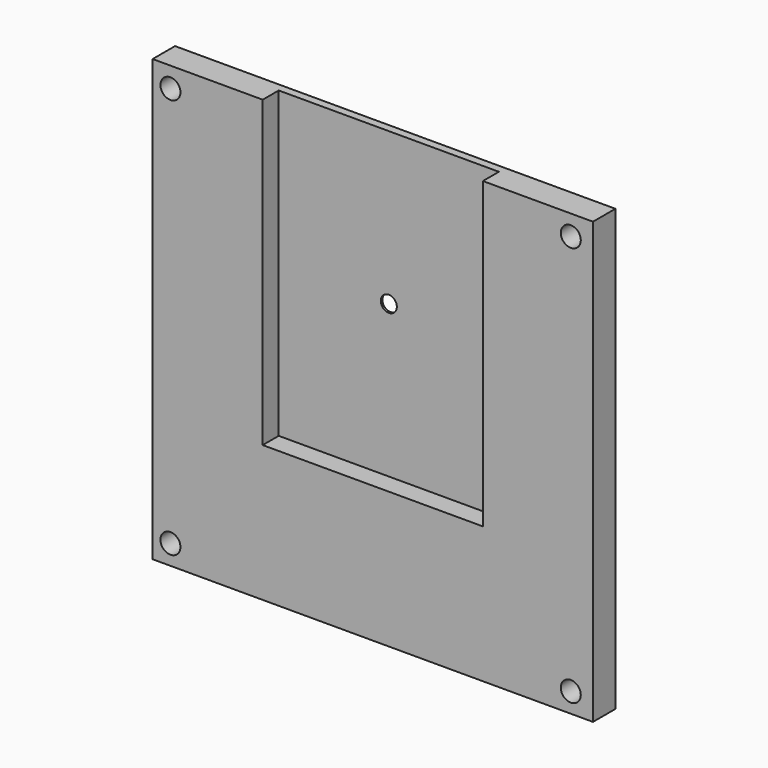
from build123d import *

# Parameters (mm, degrees)
F0_W     = 27.5
F0_H     = 55
F0_R     = 2.5
F0_H_2   = 20.950978
F1_DEPTH = 7
F2_W     = 55
F2_H     = 75.950978
F3_DEPTH = 5
F4_DEPTH = 1.5


with BuildPart() as f1:
    # F0 (on Front) → F1 (new body)
    with BuildSketch(Plane.XZ):
        with Locations((-47.613798, 47.863281)):
            Rectangle(F0_W, F0_H)
        with Locations((-56.909575, 70.300661)):
            Circle(F0_R, mode=Mode.SUBTRACT)
        Polygon((-33.863798, 20.363281), (-61.363798, 20.363281), (-61.363798, -34.636719), (48.636202, -34.636719), (48.636202, 20.363281), (21.136202, 20.363281), (21.136202, -0.587697), (-6.363798, -0.587697), (-33.863798, -0.587697), align=None)
        with Locations((-56.909575, -29.699339)):
            Circle(F0_R, mode=Mode.SUBTRACT)
        with Locations((43.090425, -29.699339)):
            Circle(F0_R, mode=Mode.SUBTRACT)
        with Locations((34.886202, 47.863281)):
            Rectangle(F0_W, F0_H)
        with Locations((43.090425, 70.300661)):
            Circle(F0_R, mode=Mode.SUBTRACT)
        Polygon((-6.363798, 75.363281), (-33.863798, 75.363281), (-33.863798, 20.363281), (-6.363798, 20.363281), (-6.363798, 32.674998), (-10.402054, 34.54878), (-10.841582, 39.465519), (-6.803326, 42.30453), (-6.363798, 42.100586), align=None)
        Polygon((21.136202, 75.363281), (-6.363798, 75.363281), (-6.363798, 42.100586), (-2.325542, 40.226804), (-1.886014, 35.310065), (-5.92427, 32.471054), (-6.363798, 32.674998), (-6.363798, 20.363281), (21.136202, 20.363281), align=None)
        with Locations((-20.113798, 9.887792)):
            Rectangle(F0_W, F0_H_2)
        with Locations((7.386202, 9.887792)):
            Rectangle(F0_W, F0_H_2)
        with BuildLine():
            Line((-2.325542, 40.226804), (-6.363798, 42.100586))
            Line((-6.363798, 42.100586), (-6.363798, 39.387792))
            ThreePointArc((-6.363798, 39.387792), (-4.949584, 38.802006), (-4.363798, 37.387792))
            ThreePointArc((-4.363798, 37.387792), (-4.949584, 35.973578), (-6.363798, 35.387792))
            Line((-6.363798, 35.387792), (-6.363798, 32.674998))
            Line((-6.363798, 32.674998), (-5.92427, 32.471054))
            Line((-5.92427, 32.471054), (-1.886014, 35.310065))
            Line((-1.886014, 35.310065), (-2.325542, 40.226804))
        make_face()
        with BuildLine():
            Line((-6.363798, 39.387792), (-6.363798, 42.100586))
            Line((-6.363798, 42.100586), (-6.803326, 42.30453))
            Line((-6.803326, 42.30453), (-10.841582, 39.465519))
            Line((-10.841582, 39.465519), (-10.402054, 34.54878))
            Line((-10.402054, 34.54878), (-6.363798, 32.674998))
            Line((-6.363798, 32.674998), (-6.363798, 35.387792))
            ThreePointArc((-6.363798, 35.387792), (-8.363798, 37.387792), (-6.363798, 39.387792))
        make_face()
    extrude(amount=F1_DEPTH)

    # F2 (on face) → F3 (cut)
    with BuildSketch(Plane.XZ.offset(7)):
        with Locations((-6.363798, 37.387792)):
            Rectangle(F2_W, F2_H)
    extrude(amount=-F3_DEPTH, mode=Mode.SUBTRACT)

    # F0 (on Front) → F4 (cut)
    with BuildSketch(Plane.XZ):
        with BuildLine():
            Line((-2.325542, 40.226804), (-6.363798, 42.100586))
            Line((-6.363798, 42.100586), (-6.363798, 39.387792))
            ThreePointArc((-6.363798, 39.387792), (-4.949584, 38.802006), (-4.363798, 37.387792))
            ThreePointArc((-4.363798, 37.387792), (-4.949584, 35.973578), (-6.363798, 35.387792))
            Line((-6.363798, 35.387792), (-6.363798, 32.674998))
            Line((-6.363798, 32.674998), (-5.92427, 32.471054))
            Line((-5.92427, 32.471054), (-1.886014, 35.310065))
            Line((-1.886014, 35.310065), (-2.325542, 40.226804))
        make_face()
        with BuildLine():
            Line((-6.363798, 39.387792), (-6.363798, 42.100586))
            Line((-6.363798, 42.100586), (-6.803326, 42.30453))
            Line((-6.803326, 42.30453), (-10.841582, 39.465519))
            Line((-10.841582, 39.465519), (-10.402054, 34.54878))
            Line((-10.402054, 34.54878), (-6.363798, 32.674998))
            Line((-6.363798, 32.674998), (-6.363798, 35.387792))
            ThreePointArc((-6.363798, 35.387792), (-8.363798, 37.387792), (-6.363798, 39.387792))
        make_face()
    extrude(amount=F4_DEPTH, mode=Mode.SUBTRACT)


solid = f1.part
